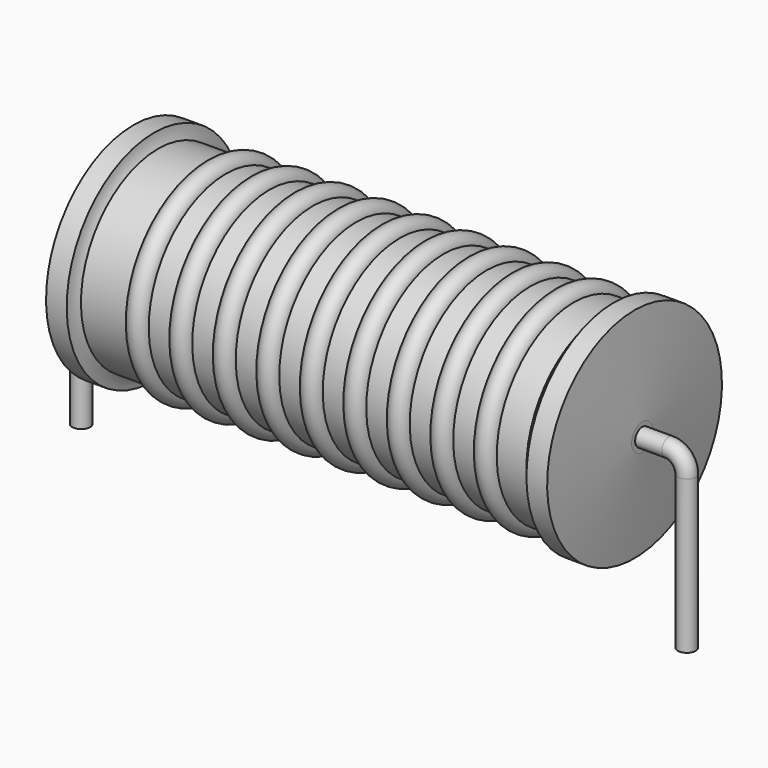
from build123d import *

# Parameters (mm, degrees)
SKETCH_R = 0.45


with BuildPart() as revolution:
    # Sketch002 → Revolution (revolve)
    with BuildSketch(Plane.XZ):
        with BuildLine():
            Line((2.63, 11.1), (3.67, 11.1))
            ThreePointArc((3.67, 11.1), (3.731746, 10.763652), (3.868, 10.45))
            Line((3.868, 10.45), (26.29, 10.45))
            ThreePointArc((26.29, 10.45), (26.583495, 10.748204), (26.81, 11.1))
            Line((26.81, 11.1), (27.85, 11.1))
            ThreePointArc((28.24, 6.275), (28.056939, 8.688465), (27.85, 11.1))
            Line((28.24, 5.6), (28.24, 6.275))
            Line((2.24, 5.6), (28.24, 5.6))
            Line((2.24, 5.6), (2.24, 6.275))
            ThreePointArc((2.63, 11.1), (2.423061, 8.688465), (2.24, 6.275))
        make_face()
    revolve(axis=Axis((2.24, 0, 5.6), (1, 0, 0)))


with BuildPart() as revolution001:
    # Sketch003 → Revolution001 (revolve)
    with BuildSketch(Plane.XZ):
        with BuildLine():
            ThreePointArc((7.289474, 10.346), (6.742105, 10.893368), (6.194737, 10.346))
            Line((5.1, 10.346), (6.194737, 10.346))
            Line((5.1, 10.346), (5.1, 9.246))
            Line((5.1, 9.246), (25.9, 9.246))
            Line((25.9, 9.246), (25.9, 10.346))
            Line((24.805263, 10.346), (25.9, 10.346))
            ThreePointArc((24.805263, 10.346), (24.257895, 10.893368), (23.710526, 10.346))
            Line((22.615789, 10.346), (23.710526, 10.346))
            ThreePointArc((22.615789, 10.346), (22.068421, 10.893368), (21.521053, 10.346))
            Line((20.426316, 10.346), (21.521053, 10.346))
            ThreePointArc((20.426316, 10.346), (19.878947, 10.893368), (19.331579, 10.346))
            Line((18.236842, 10.346), (19.331579, 10.346))
            ThreePointArc((18.236842, 10.346), (17.689474, 10.893368), (17.142105, 10.346))
            Line((16.047368, 10.346), (17.142105, 10.346))
            ThreePointArc((16.047368, 10.346), (15.5, 10.893368), (14.952632, 10.346))
            Line((13.857895, 10.346), (14.952632, 10.346))
            ThreePointArc((13.857895, 10.346), (13.310526, 10.893368), (12.763158, 10.346))
            Line((11.668421, 10.346), (12.763158, 10.346))
            ThreePointArc((11.668421, 10.346), (11.121053, 10.893368), (10.573684, 10.346))
            Line((9.478947, 10.346), (10.573684, 10.346))
            ThreePointArc((9.478947, 10.346), (8.931579, 10.893368), (8.384211, 10.346))
            Line((7.289474, 10.346), (8.384211, 10.346))
        make_face()
    revolve(axis=Axis((2.89, 0, 5.6), (1, 0, 0)))


with BuildPart() as obj1:
    # Sweep: sweep along a path in Sketch001
    with BuildLine(Plane.XZ) as sweep_path:
        Line((0, -3), (0, 4.7))
        ThreePointArc((0, 4.7), (0.2636, 5.336392), (0.899989, 5.6))
        Line((0.899989, 5.6), (29.58, 5.6))
        ThreePointArc((29.58, 5.6), (30.216396, 5.336396), (30.48, 4.7))
        Line((30.48, 4.7), (30.48, -3))
    # Sketch → Sweep (sweep)
    with BuildSketch(Plane.XY.offset(-2)):
        Circle(SKETCH_R)
    sweep(path=sweep_path.line)

    # obj1: union Revolution, Revolution001
    add(revolution.part)
    add(revolution001.part)


solid = obj1.part
